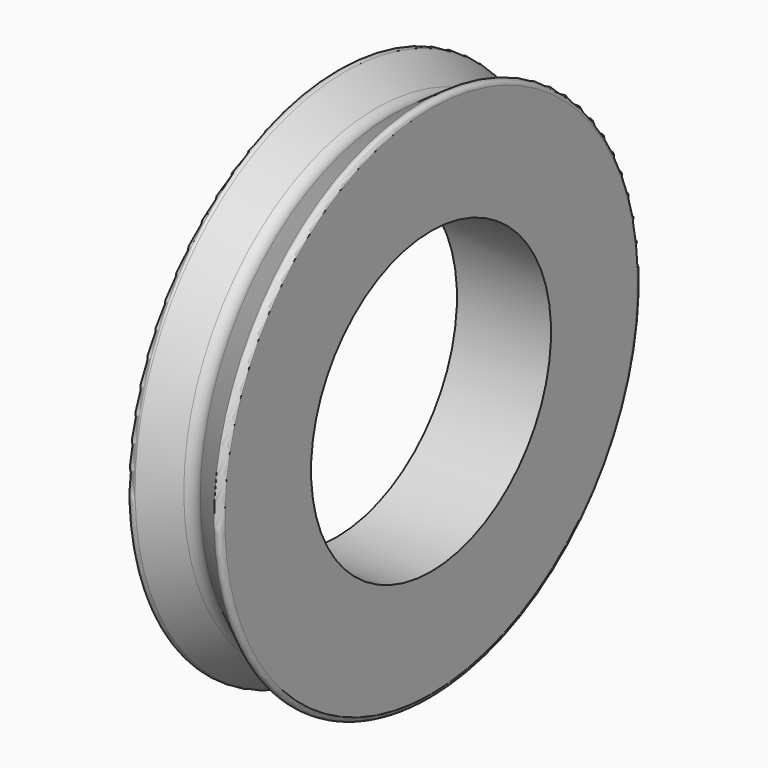
from build123d import *


with BuildPart() as f1:
    # F0 (on Front) → F1 (revolve)
    with BuildSketch(Plane.XZ):
        with BuildLine():
            Line((2.089512, 13.857055), (0.437065, 12.7))
            ThreePointArc((0.437065, 12.7), (0, 12.562194), (-0.437065, 12.7))
            Line((-0.437065, 12.7), (-2.089512, 13.857055))
            ThreePointArc((-2.089512, 13.857055), (-2.352484, 13.874292), (-2.4892, 13.648991))
            Line((-2.4892, 13.648991), (-2.4892, 7.9375))
            Line((-2.4892, 7.9375), (0, 7.9375))
            Line((0, 7.9375), (2.4892, 7.9375))
            Line((2.4892, 7.9375), (2.4892, 13.648991))
            ThreePointArc((2.4892, 13.648991), (2.352484, 13.874292), (2.089512, 13.857055))
        make_face()
    revolve(axis=Axis((2.944905, 0, 0), (1, 0, 0)))


solid = f1.part
